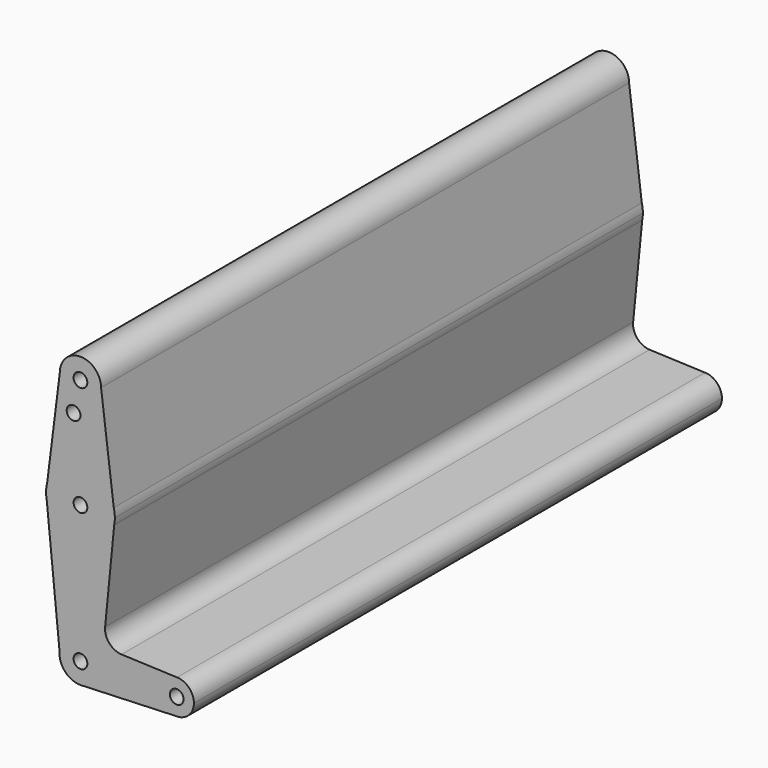
from build123d import *

# Parameters (mm, degrees)
F0_R     = 3.175
F1_DEPTH = 304.8


with BuildPart() as f1:
    # F0 (on Front) → F1 (new body)
    with BuildSketch(Plane.XZ):
        with BuildLine():
            ThreePointArc((-9.525, 114.3), (0, 104.775), (9.525, 114.3))
            ThreePointArc((9.525, 114.3), (0, 123.825), (-9.525, 114.3))
        make_face()
        with Locations((0, 114.3)):
            Circle(F0_R, mode=Mode.SUBTRACT)
        with BuildLine():
            Line((15.3865384615, 67.4076923077), (9.525, 114.3))
            ThreePointArc((9.525, 114.3), (0, 104.775), (-9.525, 114.3))
            Line((-9.525, 114.3), (-15.3865384615, 67.4076923077))
            ThreePointArc((-15.3865384615, 67.4076923077), (0, 79.375), (15.3865384615, 67.4076923077))
        make_face()
        with Locations((-3.175, 99.886942851)):
            Circle(F0_R, mode=Mode.SUBTRACT)
        with BuildLine():
            Line((15.875, 63.5), (15.3865384615, 67.4076923077))
            ThreePointArc((15.3865384615, 67.4076923077), (0, 79.375), (-15.3865384615, 67.4076923077))
            Line((-15.3865384615, 67.4076923077), (-15.875, 63.5))
            Line((-15.875, 63.5), (-15.5652161214, 60.3791552277))
            ThreePointArc((-15.5652161214, 60.3791552277), (0.0227867429, 47.6250163539), (15.5741112031, 60.4238522089))
            Line((15.5741112031, 60.4238522089), (15.875, 63.5))
        make_face()
        with Locations((0, 63.5)):
            Circle(F0_R, mode=Mode.SUBTRACT)
        with BuildLine():
            ThreePointArc((15.875, 63.5), (15.7524112928, 65.4690514116), (15.3865384615, 67.4076923077))
            Line((15.3865384615, 67.4076923077), (15.875, 63.5))
        make_face()
        with BuildLine():
            Line((-15.875, 63.5), (-15.3865384615, 67.4076923077))
            ThreePointArc((-15.3865384615, 67.4076923077), (-15.7524112928, 65.4690514116), (-15.875, 63.5))
        make_face()
        with BuildLine():
            ThreePointArc((15.5741112031, 60.4238522089), (15.7995987346, 61.9545858726), (15.875, 63.5))
            Line((15.875, 63.5), (15.5741112031, 60.4238522089))
        make_face()
        with BuildLine():
            Line((-15.5652161214, 60.3791552277), (-15.875, 63.5))
            ThreePointArc((-15.875, 63.5), (-15.7973641936, 61.9319089516), (-15.5652161214, 60.3791552277))
        make_face()
        with BuildLine():
            Line((11.3902740501, 17.6502376701), (15.5741112031, 60.4238522089))
            ThreePointArc((15.5741112031, 60.4238522089), (0.0227867429, 47.6250163539), (-15.5652161214, 60.3791552277))
            Line((-15.5652161214, 60.3791552277), (-9.6396474759, 0.683408579))
            ThreePointArc((-9.6396474759, 0.683408579), (0.3419183682, 9.6577918064), (9.6638424421, 0))
            ThreePointArc((9.6638424421, 0), (7.0934141051, -6.5630272801), (0.7495151779, -9.6347328839))
            Line((0.7495151779, -9.6347328839), (44.45, -7.9375))
            ThreePointArc((44.45, -7.9375), (36.5127834119, 0.0670752079), (44.584145626, 7.9363663727))
            Line((44.584145626, 7.9363663727), (18.9936011902, 8.9321058415))
            ThreePointArc((18.9936011902, 8.9321058415), (13.311058011, 11.650803927), (11.3902740501, 17.6502376701))
        make_face()
        with BuildLine():
            ThreePointArc((9.6638424421, 0), (0.3419183682, 9.6577918064), (-9.6396474759, 0.683408579))
            ThreePointArc((-9.6396474759, 0.683408579), (-7.0708628744, -6.5873172808), (0, -9.6638424421))
            Line((0, -9.6638424421), (0.7495151779, -9.6347328839))
            ThreePointArc((0.7495151779, -9.6347328839), (7.0934141051, -6.5630272801), (9.6638424421, 0))
        make_face()
        Circle(F0_R, mode=Mode.SUBTRACT)
        with BuildLine():
            Line((0.7495151779, -9.6347328839), (0, -9.6638424421))
            ThreePointArc((0, -9.6638424421), (0.3750401206, -9.6565623104), (0.7495151779, -9.6347328839))
        make_face()
        with BuildLine():
            ThreePointArc((52.3875, 0), (50.1098890076, 5.5650303388), (44.584145626, 7.9363663727))
            ThreePointArc((44.584145626, 7.9363663727), (36.5127834119, 0.0670752079), (44.45, -7.9375))
            ThreePointArc((44.45, -7.9375), (50.0626600757, -5.6126600757), (52.3875, 0))
        make_face()
        with Locations((44.45, 0)):
            Circle(F0_R, mode=Mode.SUBTRACT)
    extrude(amount=F1_DEPTH)


solid = f1.part
